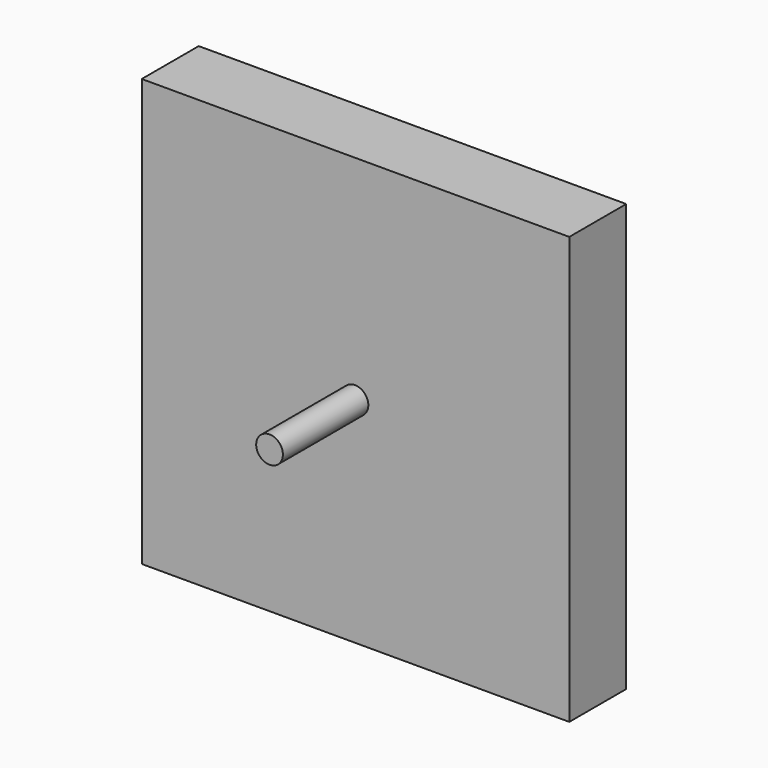
from build123d import *

# Parameters (mm, degrees)
F0_R     = 4.7625
F1_DEPTH = 25.4
F0_W     = 152.5100395083
F0_H     = 152.3174643517
F2_DEPTH = 25.4
F3_DEPTH = 12.7


with BuildPart() as f1:
    # F0 (on Front) → F1 (new body)
    with BuildSketch(Plane.XZ):
        Circle(F0_R)
    extrude(amount=F1_DEPTH)

    # F0 (on Front) → F2 (join)
    with BuildSketch(Plane.XZ):
        with Locations((0.1925639808, 0)):
            Rectangle(F0_W, F0_H)
        Circle(F0_R, mode=Mode.SUBTRACT)
    extrude(amount=-F2_DEPTH)

    # F3 (add): a face of the model
    f3_faces = [f1.faces().sort_by_distance(p)[0] for p in [
        (0, -25.4, 0),
    ]]
    extrude(f3_faces, amount=F3_DEPTH)


solid = f1.part
